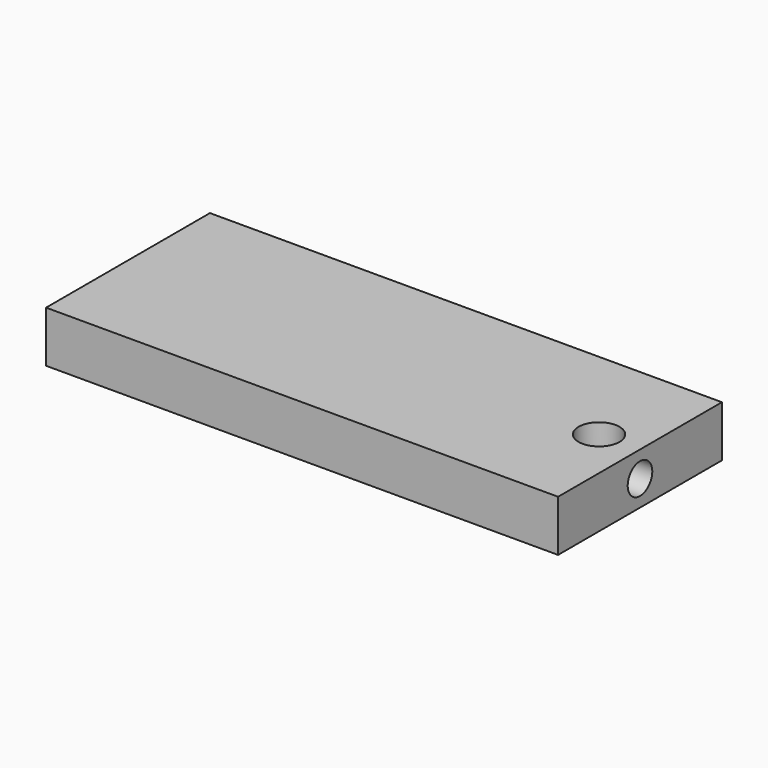
from build123d import *

# Parameters (mm, degrees)
F0_W     = 50
F0_H     = 20
F1_DEPTH = 2.5
F2_R     = 2
F3_DEPTH = 5.001
F4_R     = 1.5
F5_DEPTH = 5


with BuildPart() as f1:
    # F0 (on Top) → F1 (new body, symmetric)
    with BuildSketch(Plane.XY):
        with Locations((1.897323, 0)):
            Rectangle(F0_W, F0_H)
    extrude(amount=F1_DEPTH, both=True)

    # F2 (on face) → F3 (cut, through all)
    with BuildSketch(Plane.XY.offset(2.5)):
        with Locations((22.897323, 0)):
            Circle(F2_R)
    extrude(amount=-F3_DEPTH, mode=Mode.SUBTRACT)

    # F4 (on face) → F5 (cut)
    with BuildSketch(Plane.YZ.offset(26.897323)):
        Circle(F4_R)
    extrude(amount=-F5_DEPTH, mode=Mode.SUBTRACT)


solid = f1.part
